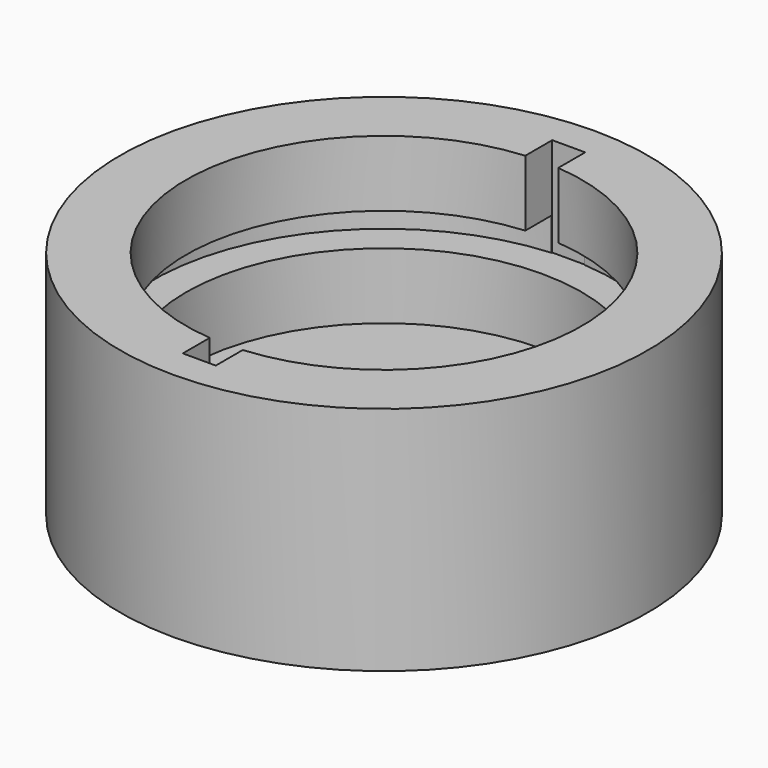
from build123d import *

# Parameters (mm, degrees)
F3_DEPTH = 4.7625
F5_D     = 5.1054


with BuildPart() as f1:
    # F0 (on Right) → F1 (revolve)
    with BuildSketch(Plane.YZ):
        Polygon((-9.525, 0), (0, 0), (0, 3.175), (-9.525, 3.175), (-9.525, 6.35), (-11.1125, 6.35), (-11.1125, 7.9375), (-9.525, 7.9375), (-9.525, 11.1125), (-12.7, 11.1125), (-12.7, 7.9375), (-12.7, 6.35), (-12.7, 0), align=None)
    revolve(axis=Axis((0, 0, 5.3960988298), (0, 0, 1)))

    # F2 (on face) → F3 (cut)
    with BuildSketch(Plane.XY.offset(11.1125)):
        Polygon((0, 9.4918694648), (0.79375, 9.4918694648), (0.79375, 11.1125), (0, 11.1125), (-0.79375, 11.1125), (-0.79375, 9.4918694648), align=None)
        Polygon((0.79375, -11.1125), (0.79375, -9.4918694648), (0, -9.4918694648), (-0.79375, -9.4918694648), (-0.79375, -11.1125), (0, -11.1125), align=None)
    extrude(amount=-F3_DEPTH, mode=Mode.SUBTRACT)

    # F5 (through all)
    with Locations(Plane(origin=(0, 0, 0), x_dir=(1, 0, 0), z_dir=(0, 0, -1))):
        with Locations((0, 0)):
            Hole(F5_D / 2)


solid = f1.part
